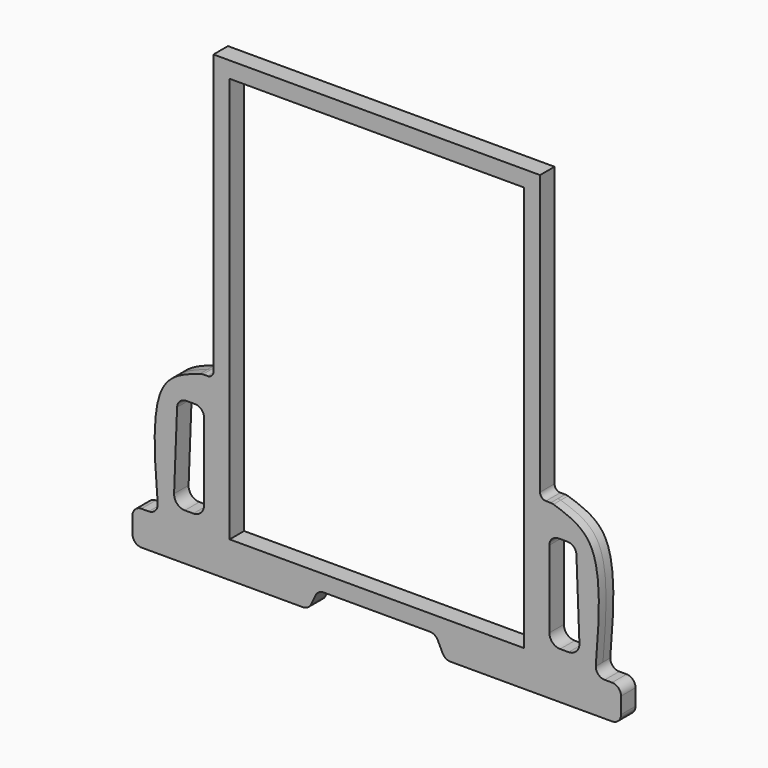
from build123d import *

# Parameters (mm, degrees)
F0_W     = 164
F0_H     = 226
F1_DEPTH = 5.05
F2_R     = 5
F3_R     = 5


with BuildPart() as f1:
    # F0 (on Front) → F1 (new body, symmetric)
    with BuildSketch(Plane.XZ):
        with BuildLine():
            ThreePointArc((-136.1519984865, -128), (-134.6875323924, -131.5355339059), (-131.1519984865, -133))
            Line((-131.1519984865, -133), (-41.1519984865, -133))
            ThreePointArc((-41.1519984865, -133), (-38.493646634, -132.2347568323), (-36.6490090186, -130.1732661714))
            Line((-36.6490090186, -130.1732661714), (-34.0686259291, -124.8267338286))
            ThreePointArc((-34.0686259291, -124.8267338286), (-32.2239883137, -122.7652431677), (-29.5656364612, -122))
            Line((-29.5656364612, -122), (29.5656364612, -122))
            ThreePointArc((29.5656364612, -122), (32.2239883137, -122.7652431677), (34.0686259291, -124.8267338286))
            Line((34.0686259291, -124.8267338286), (36.6490090186, -130.1732661714))
            ThreePointArc((36.6490090186, -130.1732661714), (38.493646634, -132.2347568323), (41.1519984865, -133))
            Line((41.1519984865, -133), (131.1519984865, -133))
            ThreePointArc((131.1519984865, -133), (134.6875323924, -131.5355339059), (136.1519984865, -128))
            Line((136.1519984865, -128), (136.1519984865, -118.9447689056))
            ThreePointArc((136.1519984865, -118.9447689056), (134.6875323924, -115.4092349997), (131.1519984865, -113.9447689056))
            Line((131.1519984865, -113.9447689056), (127.0574602485, -113.9447689056))
            ThreePointArc((127.0574602485, -113.9447689056), (123.5219263425, -112.4803028116), (122.0574602485, -108.9447689056))
            add(Edge.make_bspline(
                [(122.0574602485, -108.9447689056), (123.931935402, -85.3492312011), (127.0202597137, -46.4739905223), (106.0084033701, -39.5765251934), (97.7498069406, -36.8655137718)],
                knots=[0, 0, 0, 0, 0.6069554115, 1, 1, 1, 1], degree=3))
            Line((97.7498069406, -36.8655137718), (94.2721525095, -36.8655137718))
            ThreePointArc((94.2721525095, -36.8655137718), (91.958391281, -35.9071224908), (91, -33.5933612622))
            Line((91, -33.5933612622), (91, 122))
            Line((91, 122), (-91, 122))
            Line((-91, 122), (-91, -33.5933612622))
            ThreePointArc((-91, -33.5933612622), (-91.958391281, -35.9071224908), (-94.2721525095, -36.8655137718))
            Line((-94.2721525095, -36.8655137718), (-97.7498069406, -36.8655137718))
            add(Edge.make_bspline(
                [(-122.0574602485, -108.9447689056), (-123.931935402, -85.3492312011), (-127.0202597137, -46.4739905223), (-106.0084033701, -39.5765251934), (-97.7498069406, -36.8655137718)],
                knots=[0, 0, 0, 0, 0.6069554115, 1, 1, 1, 1], degree=3))
            ThreePointArc((-122.0574602485, -108.9447689056), (-123.5219263425, -112.4803028116), (-127.0574602485, -113.9447689056))
            Line((-127.0574602485, -113.9447689056), (-131.1519984865, -113.9447689056))
            ThreePointArc((-131.1519984865, -113.9447689056), (-134.6875323924, -115.4092349997), (-136.1519984865, -118.9447689056))
            Line((-136.1519984865, -118.9447689056), (-136.1519984865, -128))
        make_face()
        with BuildLine():
            Line((-112.9490544478, -100.6573063768), (-111.2859340244, -57.7014318636))
            ThreePointArc((-111.2859340244, -57.7014318636), (-109.7561453304, -54.291595458), (-106.2896773219, -52.8948716819))
            Line((-106.2896773219, -52.8948716819), (-101.2297698661, -52.8948716819))
            ThreePointArc((-101.2297698661, -52.8948716819), (-97.6942359602, -54.359337776), (-96.2297698661, -57.8948716819))
            Line((-96.2297698661, -57.8948716819), (-96.2297698661, -100.8894341588))
            ThreePointArc((-96.2297698661, -100.8894341588), (-97.987129179, -105.1320748459), (-102.2297698661, -106.8894341588))
            Line((-102.2297698661, -106.8894341588), (-106.9535464048, -106.8894341588))
            ThreePointArc((-106.9535464048, -106.8894341588), (-111.2774778735, -105.049195769), (-112.9490544478, -100.6573063768))
        make_face(mode=Mode.SUBTRACT)
        with BuildLine():
            Line((96.2297698661, -100.8894341588), (96.2297698661, -57.8948716819))
            ThreePointArc((96.2297698661, -57.8948716819), (97.6942359602, -54.359337776), (101.2297698661, -52.8948716819))
            Line((101.2297698661, -52.8948716819), (106.2896773219, -52.8948716819))
            ThreePointArc((106.2896773219, -52.8948716819), (109.7561453304, -54.291595458), (111.2859340244, -57.7014318636))
            Line((111.2859340244, -57.7014318636), (112.9490544478, -100.6573063768))
            ThreePointArc((112.9490544478, -100.6573063768), (111.2774778735, -105.049195769), (106.9535464048, -106.8894341588))
            Line((106.9535464048, -106.8894341588), (102.2297698661, -106.8894341588))
            ThreePointArc((102.2297698661, -106.8894341588), (97.987129179, -105.1320748459), (96.2297698661, -100.8894341588))
        make_face(mode=Mode.SUBTRACT)
        Rectangle(F0_W, F0_H, mode=Mode.SUBTRACT)
    extrude(amount=F1_DEPTH, both=True)

    # F2
    f2_edges = [f1.edges().sort_by_distance(p)[0] for p in [
        (97.749807, 2.525, -36.865514),
        (97.749807, -2.525, -36.865514),
    ]]
    fillet(f2_edges, radius=F2_R)

    # F3
    f3_edges = [f1.edges().sort_by_distance(p)[0] for p in [
        (-97.749807, 2.525, -36.865514),
        (-97.749807, -2.525, -36.865514),
    ]]
    fillet(f3_edges, radius=F3_R)


solid = f1.part
